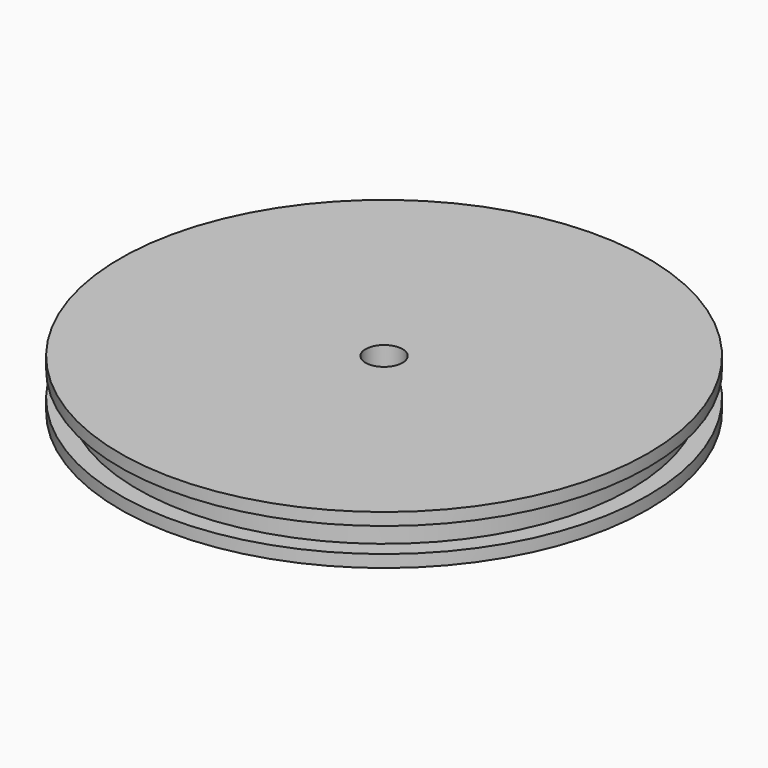
from build123d import *

# Parameters (mm, degrees)
F0_R     = 20
F0_R_2   = 1.5
F1_DEPTH = 4
F2_R     = 21.4
F2_R_2   = 20
F3_DEPTH = 1
F4_R     = 21.4
F4_R_2   = 20
F5_DEPTH = 1


with BuildPart() as f1:
    # F0 (on Top) → F1 (new body)
    with BuildSketch(Plane.XY):
        Circle(F0_R)
        Circle(F0_R_2, mode=Mode.SUBTRACT)
    extrude(amount=F1_DEPTH)

    # F2 (on face) → F3 (join)
    with BuildSketch(Plane.XY.offset(4)):
        Circle(F2_R)
        Circle(F2_R_2, mode=Mode.SUBTRACT)
    extrude(amount=-F3_DEPTH)

    # F4 (on face) → F5 (join)
    with BuildSketch(Plane(origin=(0, 0, 0), x_dir=(1, 0, 0), z_dir=(0, 0, -1))):
        Circle(F4_R)
        Circle(F4_R_2, mode=Mode.SUBTRACT)
    extrude(amount=-F5_DEPTH)


solid = f1.part
